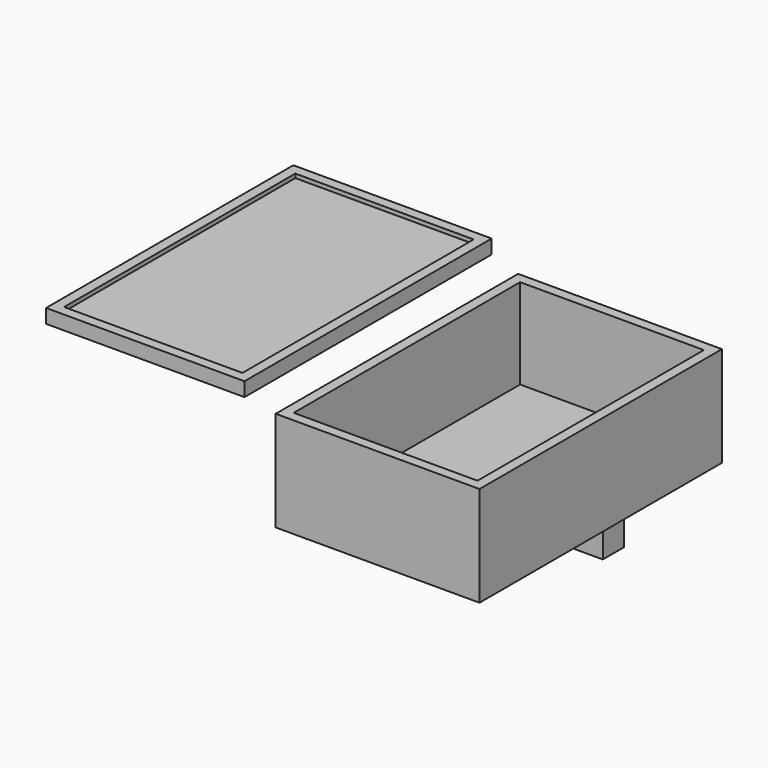
from build123d import *

# Parameters (mm, degrees)
F0_W     = 51.703814
F0_H     = 76.866761
F1_DEPTH = 25.4
F2_T     = -2.54
F3_W     = 50.332077
F3_H     = 78.39838
F4_DEPTH = 3.556
F5_T     = -2.54
F6_W     = 44.341865
F6_H     = 6.719023
F7_DEPTH = 26.924


with BuildPart() as f1:
    # F0 (on Top) → F1 (new body)
    with BuildSketch(Plane.XY):
        with Locations((-25.851907, -38.43338)):
            Rectangle(F0_W, F0_H)
    extrude(amount=F1_DEPTH)

    # F2
    f2_openings = [f1.faces().sort_by_distance(p)[0] for p in [
        (-25.851907, -38.43338, 25.4),
    ]]
    offset(amount=F2_T, openings=f2_openings)

    # F6 (on Top) → F7 (join)
    with BuildSketch(Plane.XY):
        with Locations((-47.014384, -3.359511)):
            Rectangle(F6_W, F6_H)
    extrude(amount=-F7_DEPTH)


with BuildPart() as f4:
    # F3 (on Top) → F4 (new body)
    with BuildSketch(Plane.XY):
        with Locations((-116.627242, 2.128402)):
            Rectangle(F3_W, F3_H)
    extrude(amount=F4_DEPTH)

    # F5
    f5_openings = [f4.faces().sort_by_distance(p)[0] for p in [
        (-116.627242, 2.128402, 3.556),
    ]]
    offset(amount=F5_T, openings=f5_openings)


solid = Compound([f1.part, f4.part])
